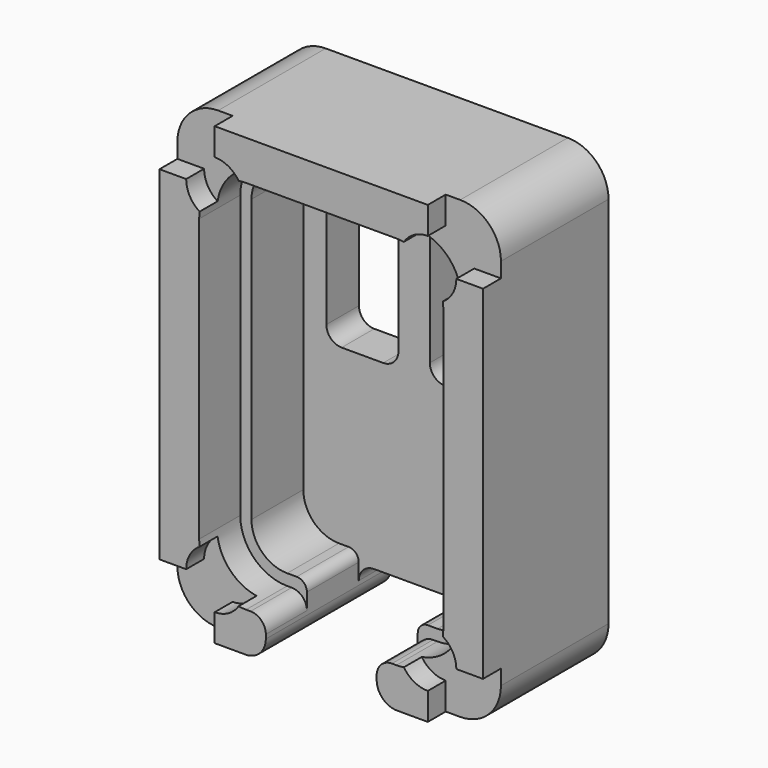
from build123d import *

# Parameters (mm, degrees)
SKETCH003_W             = 15.88
SKETCH003_H             = 22.34
PAD001_DEPTH            = 7.7
POCKET002_DEPTH         = 5.7
POCKET003_DEPTH         = 2.52
SKETCH007_W             = 5.44
SKETCH007_H             = 2.67
POCKET004_DEPTH         = 5.7
POCKET005_DEPTH         = 7.701
POCKET006_DEPTH         = 2
POCKET007_DEPTH         = 1.1
FILLET_R                = 1
FILLET001_R             = 2
FILLET011_R             = 0.5
BODY001_PLACEMENT_ANGLE = 270


with BuildPart() as part:
    # Sketch003 (on XY_Plane013 of Origin026) → Pad001 (new body)
    with BuildSketch(Plane.XY):
        Rectangle(SKETCH003_W, SKETCH003_H)
    extrude(amount=PAD001_DEPTH)

    # Sketch004 (on XY_Plane013 of Origin026) → Pocket002 (cut)
    with BuildSketch(Plane.XY):
        with BuildLine():
            Line((-3.69, 8.67), (3.69, 8.67))
            ThreePointArc((5.44, 6.92), (4.927437, 8.157437), (3.69, 8.67))
            Line((5.44, 6.92), (5.44, -6.92))
            ThreePointArc((3.69, -8.67), (4.927437, -8.157437), (5.44, -6.92))
            Line((3.69, -8.67), (-3.69, -8.67))
            ThreePointArc((-5.44, -6.92), (-4.927437, -8.157437), (-3.69, -8.67))
            Line((-5.44, -6.92), (-5.44, 6.92))
            ThreePointArc((-3.69, 8.67), (-4.927437, 8.157437), (-5.44, 6.92))
        make_face()
    extrude(amount=POCKET002_DEPTH, mode=Mode.SUBTRACT)

    # Sketch006 (on XY_Plane013 of Origin026) → Pocket003 (cut)
    with BuildSketch(Plane.XY):
        with BuildLine():
            Line((5.99, 6.92), (5.99, -6.92))
            ThreePointArc((3.69, -9.22), (5.316346, -8.546346), (5.99, -6.92))
            Line((3.69, -9.22), (-3.69, -9.22))
            ThreePointArc((-5.99, -6.92), (-5.316346, -8.546346), (-3.69, -9.22))
            Line((-5.99, -6.92), (-5.99, 6.92))
            ThreePointArc((-3.69, 9.22), (-5.316346, 8.546346), (-5.99, 6.92))
            Line((-3.69, 9.22), (-3.47, 9.22))
            ThreePointArc((-3.47, 9.22), (-2.93967, 9.43967), (-2.72, 9.97))
            Line((-2.72, 11.17), (-2.72, 9.97))
            Line((2.72, 11.17), (-2.72, 11.17))
            Line((2.72, 11.17), (2.72, 9.97))
            ThreePointArc((2.72, 9.97), (2.93967, 9.43967), (3.47, 9.22))
            Line((3.69, 9.22), (3.47, 9.22))
            ThreePointArc((5.99, 6.92), (5.316346, 8.546346), (3.69, 9.22))
        make_face()
    extrude(amount=POCKET003_DEPTH, mode=Mode.SUBTRACT)

    # Sketch007 (on XY_Plane013 of Origin026) → Pocket004 (cut)
    with BuildSketch(Plane.XY):
        with Locations((0, 9.835)):
            Rectangle(SKETCH007_W, SKETCH007_H)
    extrude(amount=POCKET004_DEPTH, mode=Mode.SUBTRACT)

    # Sketch008 (on XY_Plane013 of Origin026) → Pocket005 (cut, through all)
    with BuildSketch(Plane.XY):
        with BuildLine():
            Line((2.72, 11.17), (2.72, 9.97))
            ThreePointArc((1.97, 9.22), (2.50033, 9.43967), (2.72, 9.97))
            Line((1.97, 9.22), (-1.97, 9.22))
            ThreePointArc((-2.72, 9.97), (-2.50033, 9.43967), (-1.97, 9.22))
            Line((-2.72, 11.17), (-2.72, 9.97))
            Line((2.72, 11.17), (-2.72, 11.17))
        make_face()
    extrude(amount=POCKET005_DEPTH, mode=Mode.SUBTRACT)

    # Sketch009 (on XY_Plane013 of Origin026) → Pocket006 (cut)
    with BuildSketch(Plane.XY.offset(7.7)):
        with BuildLine():
            Line((-0.77, -0.58), (-0.77, -7.7))
            ThreePointArc((-1.52, -8.45), (-0.98967, -8.23033), (-0.77, -7.7))
            Line((-3.56, -8.45), (-1.52, -8.45))
            ThreePointArc((-4.31, -7.7), (-4.09033, -8.23033), (-3.56, -8.45))
            Line((-4.31, -7.7), (-4.31, -0.58))
            ThreePointArc((-3.56, 0.17), (-4.09033, -0.04967), (-4.31, -0.58))
            Line((-3.56, 0.17), (-1.52, 0.17))
            ThreePointArc((-0.77, -0.58), (-0.98967, -0.04967), (-1.52, 0.17))
        make_face()
        with BuildLine():
            Line((0.77, -0.58), (0.77, -7.7))
            ThreePointArc((0.77, -7.7), (0.98967, -8.23033), (1.52, -8.45))
            Line((1.52, -8.45), (3.56, -8.45))
            ThreePointArc((3.56, -8.45), (4.09033, -8.23033), (4.31, -7.7))
            Line((4.31, -7.7), (4.31, -0.58))
            ThreePointArc((4.31, -0.58), (4.09033, -0.04967), (3.56, 0.17))
            Line((1.52, 0.17), (3.56, 0.17))
            ThreePointArc((1.52, 0.17), (0.98967, -0.04967), (0.77, -0.58))
        make_face()
    extrude(amount=-POCKET006_DEPTH, mode=Mode.SUBTRACT)

    # Sketch010 (on XY_Plane013 of Origin026) → Pocket007 (cut)
    with BuildSketch(Plane.XY):
        with BuildLine():
            Line((5.23, 13.43), (10.23, 13.43))
            Line((10.23, 13.43), (10.23, 8.43))
            Line((6.63, 8.43), (10.23, 8.43))
            ThreePointArc((5.23, 9.83), (4.240051, 7.440051), (6.63, 8.43))
            Line((5.23, 9.83), (5.23, 13.43))
        make_face()
        with BuildLine():
            Line((-5.23, 13.43), (-10.23, 13.43))
            Line((-10.23, 13.43), (-10.23, 8.43))
            Line((-10.23, 8.43), (-6.63, 8.43))
            ThreePointArc((-6.63, 8.43), (-4.240051, 7.440051), (-5.23, 9.83))
            Line((-5.23, 13.43), (-5.23, 9.83))
        make_face()
        with BuildLine():
            Line((5.23, -13.43), (10.23, -13.43))
            Line((10.23, -13.43), (10.23, -8.43))
            Line((6.63, -8.43), (10.23, -8.43))
            ThreePointArc((6.63, -8.43), (4.240051, -7.440051), (5.23, -9.83))
            Line((5.23, -13.43), (5.23, -9.83))
        make_face()
        with BuildLine():
            Line((-10.23, -13.43), (-5.23, -13.43))
            Line((-5.23, -13.43), (-5.23, -9.83))
            ThreePointArc((-5.23, -9.83), (-4.240051, -7.440051), (-6.63, -8.43))
            Line((-10.23, -8.43), (-6.63, -8.43))
            Line((-10.23, -13.43), (-10.23, -8.43))
        make_face()
    extrude(amount=POCKET007_DEPTH, mode=Mode.SUBTRACT)

    # Fillet
    fillet_edges = [part.edges().sort_by_distance(p)[0] for p in [
        (2.72, 11.17, 3.85),
        (-2.72, 11.17, 3.85),
    ]]
    fillet(fillet_edges, radius=FILLET_R)

    # Fillet001
    fillet001_edges = [part.edges().sort_by_distance(p)[0] for p in [
        (7.94, 11.17, 4.4),
        (-7.94, 11.17, 4.4),
        (-7.94, -11.17, 4.4),
        (7.94, -11.17, 4.4),
    ]]
    fillet(fillet001_edges, radius=FILLET001_R)

    # Fillet011
    fillet011_edges = [part.edges().sort_by_distance(p)[0] for p in [
        (2.72, 8.67, 4.11),
        (-2.72, 8.67, 4.11),
    ]]
    fillet(fillet011_edges, radius=FILLET011_R)


with BuildPart() as part_1:
    # Body001 placement: moved
    add(part.part.moved(Location((0, 9.33, 43.08))).rotate(Axis((0, 9.33, 43.08), (1, 0, 0)), BODY001_PLACEMENT_ANGLE))


solid = part_1.part
